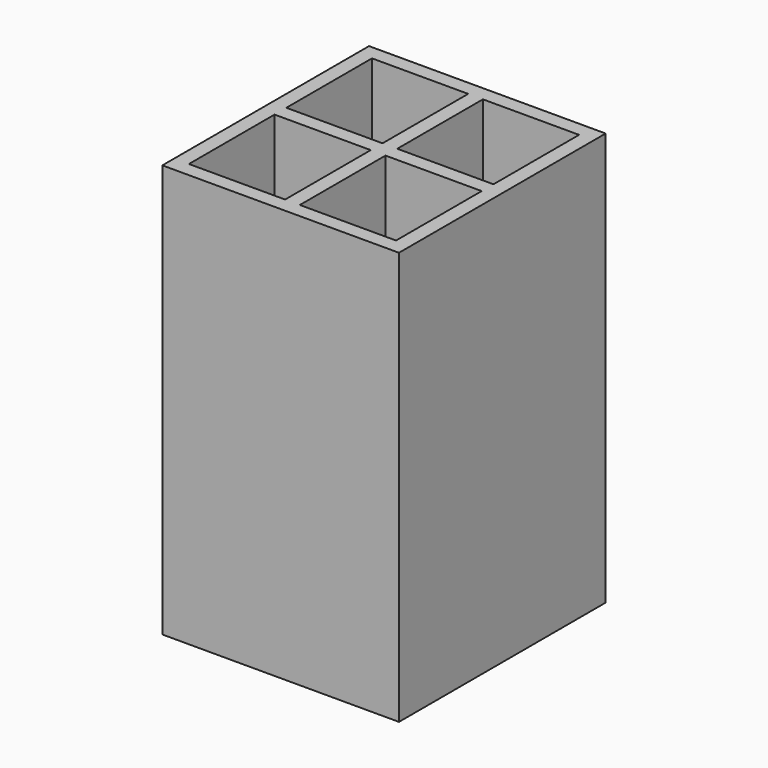
from build123d import *

# Parameters (mm, degrees)
F0_W     = 50.931696
F0_H     = 55.600882
F1_DEPTH = 88.9
F2_W     = 20.703348
F2_H     = 23.037941
F3_DEPTH = 85.852


with BuildPart() as f1:
    # F0 (on Top) → F1 (new body)
    with BuildSketch(Plane.XY):
        Rectangle(F0_W, F0_H)
    extrude(amount=F1_DEPTH)

    # F2 (on face) → F3 (cut)
    with BuildSketch(Plane.XY.offset(88.9)):
        Polygon((-22.290848, 23.611975), (-22.290848, 1.5875), (-1.5875, 1.5875), (-1.5875, 24.625441), (-20.838022, 24.625441), (-22.290848, 24.625441), align=None)
        with Locations((-11.939174, -13.10647)):
            Rectangle(F2_W, F2_H)
        with Locations((11.939174, -13.10647)):
            Rectangle(F2_W, F2_H)
        with Locations((11.939174, 13.10647)):
            Rectangle(F2_W, F2_H)
    extrude(amount=-F3_DEPTH, mode=Mode.SUBTRACT)


solid = f1.part
